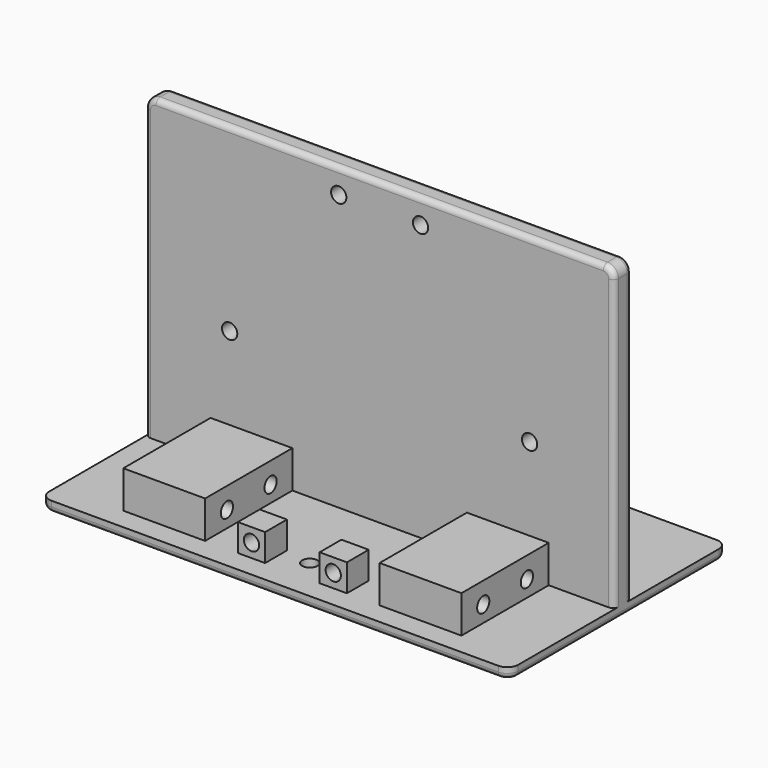
from build123d import *

# Parameters (mm, degrees)
SKETCH_R        = 1.4
PAD_DEPTH       = 2
SKETCH001_W     = 86
SKETCH001_H     = 4
PAD001_DEPTH    = 55
FILLET_R        = 2
FILLET001_R     = 2
FILLET002_R     = 1
FILLET003_R     = 1
FILLET004_R     = 1
SKETCH002_R     = 1.4
POCKET_DEPTH    = 5
SKETCH003_W     = 15
SKETCH003_H     = 20
PAD002_DEPTH    = 6.85
SKETCH004_R     = 1.4
POCKET001_DEPTH = 15
SKETCH005_R     = 1.4
POCKET002_DEPTH = 20
SKETCH006_W     = 5
SKETCH006_H     = 5
PAD003_DEPTH    = 5
SKETCH007_R     = 1.4
POCKET003_DEPTH = 5
SKETCH008_R     = 1.4
POCKET004_DEPTH = 5
SKETCH009_R     = 1.4
POCKET005_DEPTH = 4


with BuildPart() as part:
    # Sketch → Pad (new body)
    with BuildSketch(Plane.XY):
        with BuildLine():
            ThreePointArc((-41, 25), (-42.414214, 24.414214), (-43, 23))
            Line((-43, -23), (-43, 23))
            ThreePointArc((-43, -23), (-42.414214, -24.414214), (-41, -25))
            Line((41, -25), (-41, -25))
            ThreePointArc((41, -25), (42.414214, -24.414214), (43, -23))
            Line((43, 23), (43, -23))
            ThreePointArc((43, 23), (42.414214, 24.414214), (41, 25))
            Line((-41, 25), (41, 25))
        make_face()
        with Locations((0, 7)):
            Circle(SKETCH_R, mode=Mode.SUBTRACT)
        with Locations((0, -17)):
            Circle(SKETCH_R, mode=Mode.SUBTRACT)
    extrude(amount=PAD_DEPTH)

    # Sketch001 (on Face12 of Pad) → Pad001 (join)
    with BuildSketch(Plane.XY.offset(2)):
        with Locations((0, 1)):
            Rectangle(SKETCH001_W, SKETCH001_H)
    extrude(amount=PAD001_DEPTH)

    # Fillet
    fillet_edges = [part.edges().sort_by_distance(p)[0] for p in [
        (-43, 1, 57),
    ]]
    fillet(fillet_edges, radius=FILLET_R)

    # Fillet001
    fillet001_edges = [part.edges().sort_by_distance(p)[0] for p in [
        (43, 1, 57),
    ]]
    fillet(fillet001_edges, radius=FILLET001_R)

    # Fillet002
    fillet002_edges = [part.edges().sort_by_distance(p)[0] for p in [
        (-43, 3, 28.5),
    ]]
    fillet(fillet002_edges, radius=FILLET002_R)

    # Fillet003
    fillet003_edges = [part.edges().sort_by_distance(p)[0] for p in [
        (-43, -1, 28.5),
    ]]
    fillet(fillet003_edges, radius=FILLET003_R)

    # Fillet004
    fillet004_edges = [part.edges().sort_by_distance(p)[0] for p in [
        (-43, 0, 0),
    ]]
    fillet(fillet004_edges, radius=FILLET004_R)

    # Sketch002 (on Face12 of Fillet004) → Pocket (cut)
    with BuildSketch(Plane(origin=(0, 3, 0), x_dir=(-1, 0, 0), z_dir=(0, 1, 0))):
        with Locations((-27.5, 24)):
            Circle(SKETCH002_R)
        with Locations((27.5, 24)):
            Circle(SKETCH002_R)
    extrude(amount=-POCKET_DEPTH, mode=Mode.SUBTRACT)

    # Sketch003 (on Face6 of Pocket) → Pad002 (join)
    with BuildSketch(Plane.XY.offset(2)):
        with Locations((-23.5, -11)):
            Rectangle(SKETCH003_W, SKETCH003_H)
        with Locations((23.5, -11)):
            Rectangle(SKETCH003_W, SKETCH003_H)
    extrude(amount=PAD002_DEPTH)

    # Sketch004 (on Face23 of Pad002) → Pocket001 (cut)
    with BuildSketch(Plane(origin=(-31, 0, 0), x_dir=(0, -1, 0), z_dir=(-1, 0, 0))):
        with Locations((6, 5)):
            Circle(SKETCH004_R)
        with Locations((16, 5)):
            Circle(SKETCH004_R)
    extrude(amount=-POCKET001_DEPTH, mode=Mode.SUBTRACT)

    # Sketch005 (on Face28 of Pocket001) → Pocket002 (cut)
    with BuildSketch(Plane.YZ.offset(31)):
        with Locations((-16, 5)):
            Circle(SKETCH005_R)
        with Locations((-6, 5)):
            Circle(SKETCH005_R)
    extrude(amount=-POCKET002_DEPTH, mode=Mode.SUBTRACT)

    # Sketch006 (on Face6 of Pocket002) → Pad003 (join)
    with BuildSketch(Plane.XY.offset(2)):
        with Locations((-7.5, -18.5)):
            Rectangle(SKETCH006_W, SKETCH006_H)
        with Locations((7.5, -18.5)):
            Rectangle(SKETCH006_W, SKETCH006_H)
    extrude(amount=PAD003_DEPTH)

    # Sketch007 (on Face30 of Pad003) → Pocket003 (cut)
    with BuildSketch(Plane.XZ.offset(21)):
        with Locations((-7.5, 4.5)):
            Circle(SKETCH007_R)
    extrude(amount=-POCKET003_DEPTH, mode=Mode.SUBTRACT)

    # Sketch008 (on Face34 of Pocket003) → Pocket004 (cut)
    with BuildSketch(Plane.XZ.offset(21)):
        with Locations((7.5, 4.5)):
            Circle(SKETCH008_R)
    extrude(amount=-POCKET004_DEPTH, mode=Mode.SUBTRACT)

    # Sketch009 (on Face20 of Pocket004) → Pocket005 (cut)
    with BuildSketch(Plane.XZ.offset(1)):
        with Locations((-7.5, 52.5)):
            Circle(SKETCH009_R)
        with Locations((7.5, 52.5)):
            Circle(SKETCH009_R)
    extrude(amount=-POCKET005_DEPTH, mode=Mode.SUBTRACT)


solid = part.part
